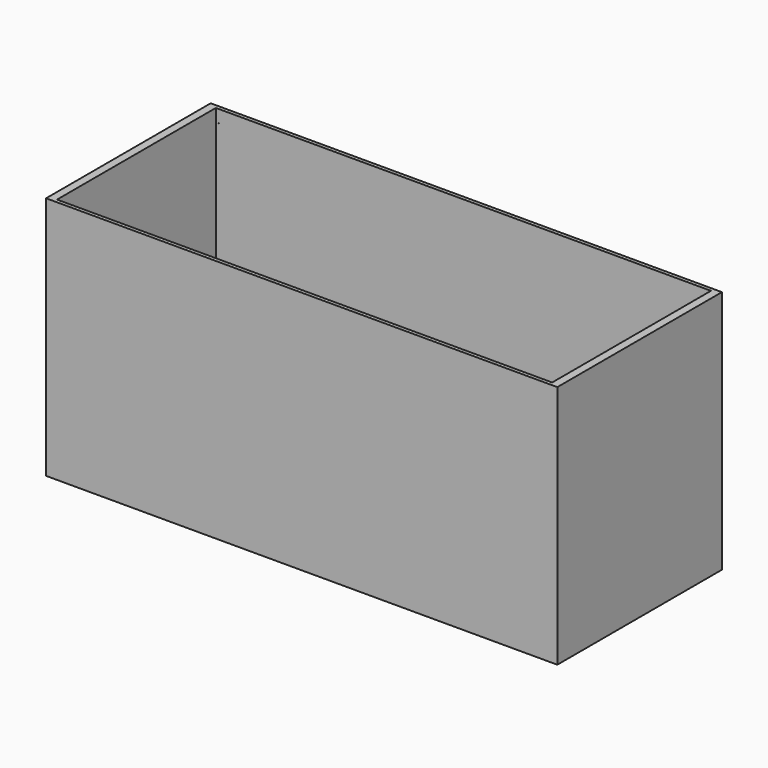
from build123d import *

# Parameters (mm, degrees)
F0_W     = 6058
F0_H     = 2438
F1_DEPTH = 2896
F3_DEPTH = 2650
F5_DEPTH = 2438.001


with BuildPart() as f1:
    # F0 (on Top) → F1 (new body)
    with BuildSketch(Plane.XY):
        with Locations((3029, 1219)):
            Rectangle(F0_W, F0_H)
    extrude(amount=F1_DEPTH)

    # F2 (on face) → F3 (cut)
    with BuildSketch(Plane.XY.offset(2896)):
        Polygon((3029, 2395), (95.5, 2395), (95.5, 1219), (95.5, 43), (3029, 43), (5962.5, 43), (5962.5, 1219), (5962.5, 2395), align=None)
    extrude(amount=-F3_DEPTH, mode=Mode.SUBTRACT)

    # F4 (on face) → F5 (cut, through all)
    with BuildSketch(Plane.XZ):
        with BuildLine():
            Line((131.5, 2746), (129, 2746))
            Line((129, 2746), (126.5, 2746))
            ThreePointArc((126.5, 2746), (129, 2743.5), (131.5, 2746))
        make_face()
        with BuildLine():
            Line((126.5, 2746), (129, 2746))
            Line((129, 2746), (131.5, 2746))
            ThreePointArc((131.5, 2746), (129, 2748.5), (126.5, 2746))
        make_face()
        with BuildLine():
            Line((5929, 2746), (5926.5, 2746))
            ThreePointArc((5926.5, 2746), (5929, 2743.5), (5931.5, 2746))
            Line((5931.5, 2746), (5929, 2746))
        make_face()
        with BuildLine():
            ThreePointArc((5931.5, 2746), (5929, 2748.5), (5926.5, 2746))
            Line((5926.5, 2746), (5929, 2746))
            Line((5929, 2746), (5931.5, 2746))
        make_face()
    extrude(amount=-F5_DEPTH, mode=Mode.SUBTRACT)


solid = f1.part
